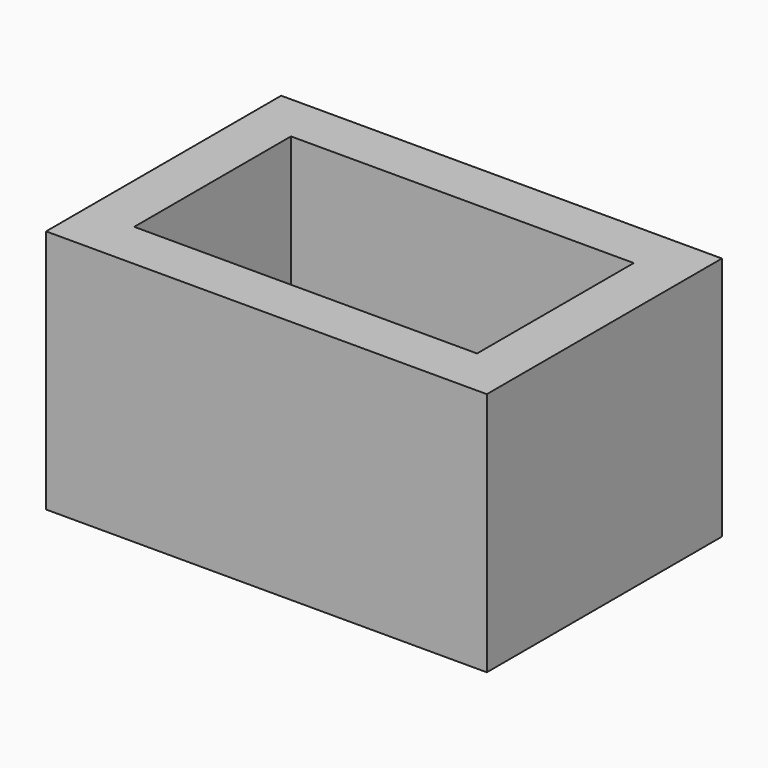
from build123d import *

# Parameters (mm, degrees)
F1_W     = 45
F1_H     = 30
F1_W_2   = 35
F1_H_2   = 20
F2_DEPTH = 25


with BuildPart() as f2:
    # F1 (on face) → F2 (new body)
    with BuildSketch(Plane.XY):
        Rectangle(F1_W, F1_H)
        Rectangle(F1_W_2, F1_H_2, mode=Mode.SUBTRACT)
    extrude(amount=F2_DEPTH)


solid = f2.part
